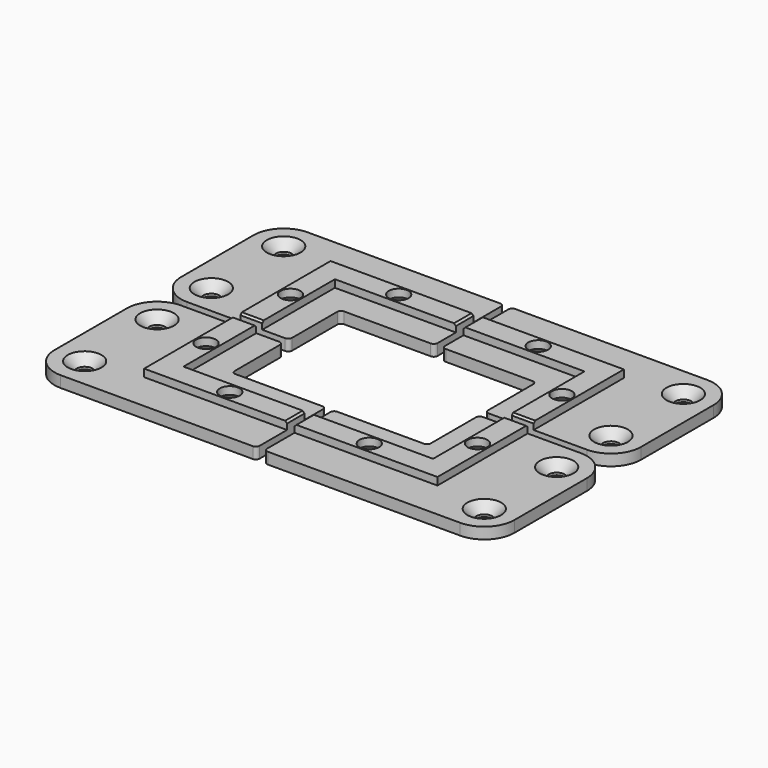
from build123d import *

# Parameters (mm, degrees)
F1_DEPTH       = 3
F2_DEPTH       = 5
F3_D           = 5.25
F3_CSINK_D     = 11.2
F3_CSINK_ANGLE = 90
F5_D           = 4.2
F5_CSINK_D     = 8.96
F5_CSINK_ANGLE = 90
F6_R           = 8
F7_R           = 1
F8_SIZE        = 0.5


with BuildPart() as f1:
    # F0 (on Top) → F1 (new body)
    with BuildSketch(Plane.XY):
        Polygon((38.9, 30.9), (38.9, 1), (61, 1), (61, 41), (1, 41), (1, 30.9), align=None)
        Polygon((26, 18), (26, 1), (33.1, 1), (33.1, 25.1), (1, 25.1), (1, 18), align=None)
        Polygon((33.1, 25.1), (33.1, 1), (38.9, 1), (38.9, 30.9), (1, 30.9), (1, 25.1), align=None)
    extrude(amount=F1_DEPTH)

    # F0 (on Top) → F2 (join)
    with BuildSketch(Plane.XY):
        Polygon((33.1, 25.1), (33.1, 1), (38.9, 1), (38.9, 30.9), (1, 30.9), (1, 25.1), align=None)
    extrude(amount=F2_DEPTH)

    # F3 (through all)
    with Locations(Plane(origin=(0, 0, 0), x_dir=(1, 0, 0), z_dir=(0, 0, -1))):
        with Locations((36, -14), (18.5, -28)):
            CounterSinkHole(F3_D / 2, F3_CSINK_D / 2, counter_sink_angle=F3_CSINK_ANGLE)

    # F5 (through all)
    with Locations(Plane.XY.offset(3)):
        with Locations((53, 9), (53, 33)):
            CounterSinkHole(F5_D / 2, F5_CSINK_D / 2, counter_sink_angle=F5_CSINK_ANGLE)

    # F6
    f6_edges = [f1.edges().sort_by_distance(p)[0] for p in [
        (61, 41, 1.5),
        (61, 1, 1.5),
    ]]
    fillet(f6_edges, radius=F6_R)

    # F7
    f7_edges = [f1.edges().sort_by_distance(p)[0] for p in [
        (26, 1, 1.5),
        (26, 18, 1.5),
        (1, 18, 1.5),
        (1, 41, 1.5),
    ]]
    fillet(f7_edges, radius=F7_R)

    # F8
    f8_edges = [f1.edges().sort_by_distance(p)[0] for p in [
        (36, 1, 5),
        (1, 28, 5),
    ]]
    chamfer(f8_edges, length=F8_SIZE)


with BuildPart() as f9_1:
    # F9: instance of F1
    add(f1.part.mirror(Plane.YZ))


with BuildPart() as f10_1:
    # F10: instance of F9_1
    add(f9_1.part.mirror(Plane.XZ))


with BuildPart() as f10_2:
    # F10: instance of F1
    add(f1.part.mirror(Plane.XZ))


solid = Compound([f1.part, f9_1.part, f10_1.part, f10_2.part])
